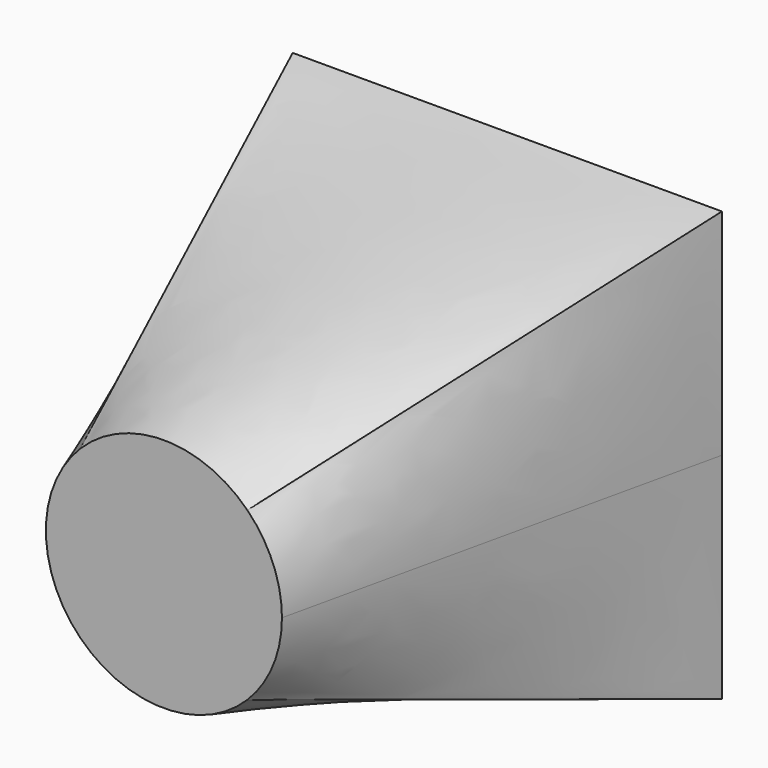
from build123d import *

# Parameters (mm, degrees)
F0_W = 100
F0_H = 100
F2_R = 27.5


with BuildPart() as f3:
    # F0 (on Front) → F3 section 0
    with BuildSketch(Plane.XZ):
        Rectangle(F0_W, F0_H)
    # F2 (on offset) → F3 section 1
    with BuildSketch(Plane.XZ.offset(100)):
        Circle(F2_R)
    loft()


solid = f3.part
